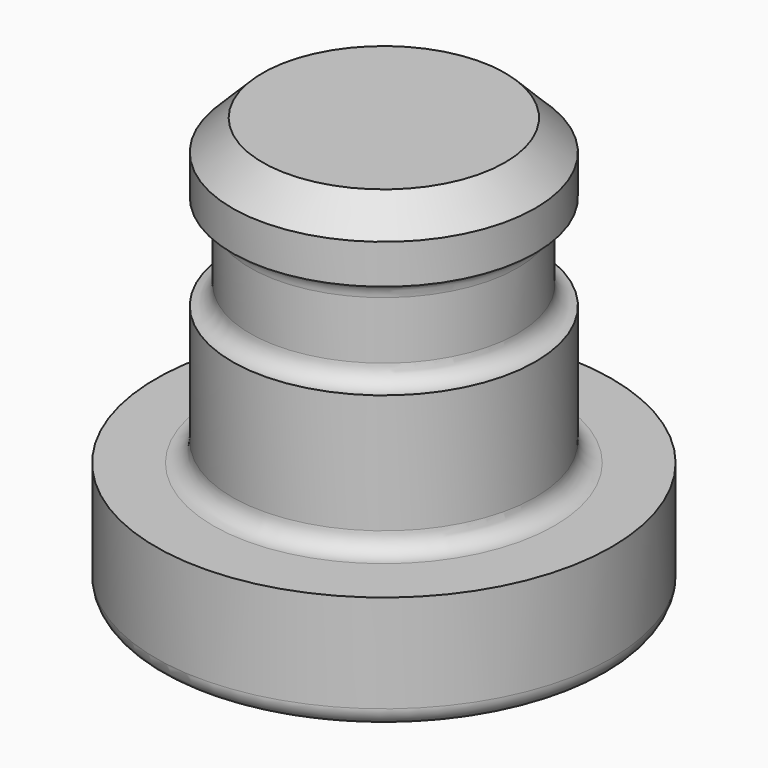
from build123d import *

# Parameters (mm, degrees)
F2_SIZE = 2.54
F3_R    = 1.5875


with BuildPart() as f1:
    # F0 (on Front) → F1 (revolve)
    with BuildSketch(Plane.XZ):
        with BuildLine():
            Line((12.6746, 20.479507), (0, 20.479507))
            Line((0, 20.479507), (0, -14.699493))
            Line((0, -14.699493), (19.05, -14.699493))
            Line((19.05, -14.699493), (19.05, -4.920493))
            Line((19.05, -4.920493), (14.2621, -4.920493))
            ThreePointArc((14.2621, -4.920493), (13.139568, -4.455525), (12.6746, -3.332993))
            Line((12.6746, -3.332993), (12.6746, 6.636507))
            Line((12.6746, 6.636507), (12.6746, 6.638998))
            ThreePointArc((12.6746, 6.638998), (11.609965, 7.133359), (11.176, 8.224007))
            Line((11.176, 8.224007), (11.176, 13.050007))
            ThreePointArc((11.176, 13.050007), (11.609965, 14.140656), (12.6746, 14.635016))
            Line((12.6746, 14.635016), (12.6746, 14.637507))
            Line((12.6746, 14.637507), (12.6746, 20.479507))
        make_face()
    revolve(axis=Axis((0, 0, 2.082966), (0, 0, -1)))

    # F2
    f2_edges = [f1.edges().sort_by_distance(p)[0] for p in [
        (-12.6746, 0, 20.479507),
    ]]
    chamfer(f2_edges, length=F2_SIZE)

    # F3
    f3_edges = [f1.edges().sort_by_distance(p)[0] for p in [
        (-19.05, 0, -14.699493),
    ]]
    fillet(f3_edges, radius=F3_R)


solid = f1.part
